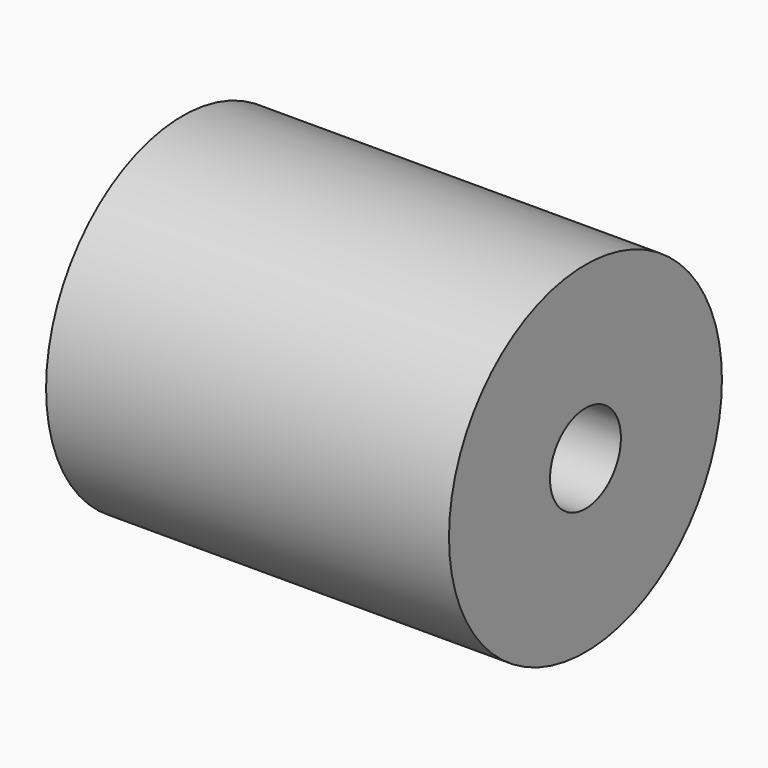
from build123d import *

# Parameters (mm, degrees)
F0_R     = 12.7
F1_DEPTH = 30
F3_D     = 6.6


with BuildPart() as f1:
    # F0 (on Right) → F1 (new body)
    with BuildSketch(Plane.YZ):
        Circle(F0_R)
    extrude(amount=F1_DEPTH)

    # F3 (through all)
    with Locations(Plane(origin=(0, 0, 0), x_dir=(0, -1, 0), z_dir=(-1, 0, 0))):
        with Locations((0, 0)):
            Hole(F3_D / 2)


solid = f1.part
